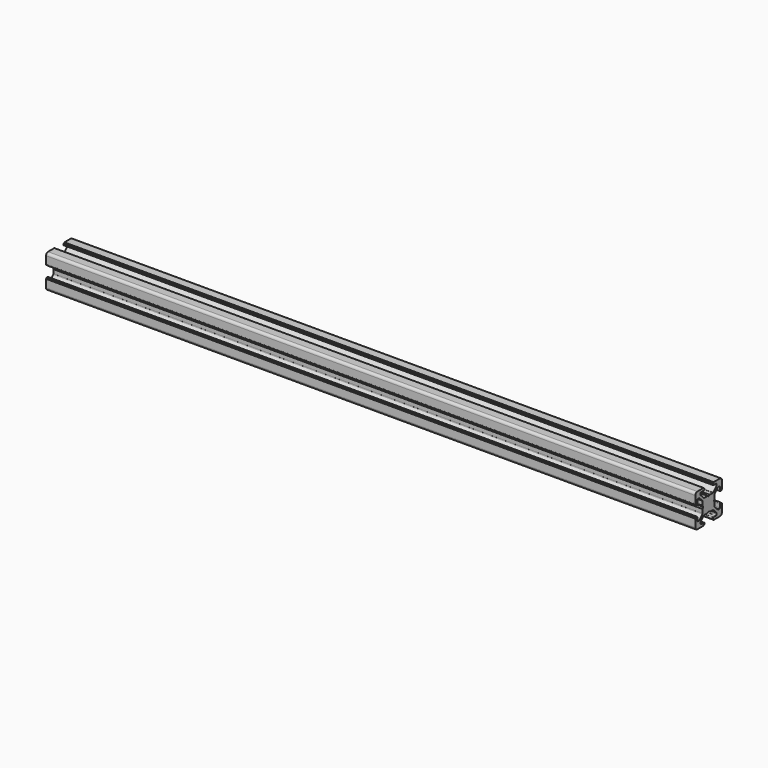
from build123d import *

# Parameters (mm, degrees)
PAD019_DEPTH          = 390
POCKET031_DEPTH       = 390.001
FUSION040_PITCH_ANGLE = 90


with BuildPart() as pad019:
    # Sketch052 → Pad019 (new body)
    with BuildSketch(Plane(origin=(1.5, 0, 0), x_dir=(1, 0, 0), z_dir=(0, 0, 1))):
        with BuildLine():
            Line((0, 20), (4.65, 20))
            ThreePointArc((4.85, 19.8), (4.791421, 19.941421), (4.65, 20))
            Line((4.85, 19.8), (4.85, 19.5))
            Line((4.85, 19.5), (5.2, 19.5))
            ThreePointArc((5.4, 19.3), (5.341421, 19.441421), (5.2, 19.5))
            Line((5.4, 19.3), (5.4, 19))
            ThreePointArc((4.9, 18.5), (5.253553, 18.646446), (5.4, 19))
            Line((4.9, 18.5), (2.999999, 18.5))
            ThreePointArc((2.999999, 18.5), (2.646446, 18.353553), (2.499999, 18))
            Line((2.499999, 18), (2.499999, 17.267767))
            ThreePointArc((2.499999, 17.267767), (2.53806, 17.076425), (2.646446, 16.914213))
            Line((2.646446, 16.914213), (4.914213, 14.646447))
            ThreePointArc((4.914213, 14.646447), (5.076424, 14.53806), (5.267766, 14.5))
            Line((5.267766, 14.5), (7.54641, 14.5))
            ThreePointArc((7.64641, 14.473205), (7.598173, 14.493185), (7.54641, 14.5))
            Line((7.64641, 14.473205), (8.4, 14.03812))
            ThreePointArc((8.4, 14.03812), (8.5, 14.011325), (8.6, 14.03812))
            Line((8.6, 14.03812), (9.35359, 14.473205))
            ThreePointArc((9.45359, 14.5), (9.401827, 14.493185), (9.35359, 14.473205))
            Line((9.45359, 14.5), (11.732234, 14.5))
            ThreePointArc((11.732234, 14.5), (11.923576, 14.53806), (12.085787, 14.646447))
            Line((12.085787, 14.646447), (14.353554, 16.914213))
            ThreePointArc((14.353554, 16.914213), (14.46194, 17.076425), (14.500001, 17.267767))
            Line((14.500001, 17.267767), (14.500001, 18))
            ThreePointArc((14.500001, 18), (14.353554, 18.353553), (14.000001, 18.5))
            Line((14.000001, 18.5), (12.1, 18.5))
            ThreePointArc((11.6, 19), (11.746447, 18.646446), (12.1, 18.5))
            Line((11.6, 19), (11.6, 19.3))
            ThreePointArc((11.8, 19.5), (11.658579, 19.441421), (11.6, 19.3))
            Line((11.8, 19.5), (12.15, 19.5))
            Line((12.15, 19.5), (12.15, 19.8))
            ThreePointArc((12.35, 20), (12.208579, 19.941421), (12.15, 19.8))
            Line((12.35, 20), (17, 20))
            ThreePointArc((18.5, 18.5), (18.06066, 19.56066), (17, 20))
            Line((18.5, 18.5), (18.5, 13.85))
            ThreePointArc((18.3, 13.65), (18.441421, 13.708578), (18.5, 13.85))
            Line((18.3, 13.65), (18, 13.65))
            Line((18, 13.65), (18, 13.3))
            ThreePointArc((17.8, 13.1), (17.941421, 13.158579), (18, 13.3))
            Line((17.8, 13.1), (17.5, 13.1))
            ThreePointArc((17, 13.6), (17.146446, 13.246447), (17.5, 13.1))
            Line((17, 13.6), (17, 15.5))
            ThreePointArc((17, 15.5), (16.853553, 15.853553), (16.5, 16))
            Line((16.5, 16), (15.767767, 16))
            ThreePointArc((15.767767, 16), (15.576425, 15.961939), (15.414213, 15.853553))
            Line((15.414213, 15.853553), (13.146446, 13.585786))
            ThreePointArc((13.146446, 13.585786), (13.03806, 13.423574), (13, 13.232233))
            Line((13, 13.232233), (13, 10.953589))
            ThreePointArc((12.973205, 10.853589), (12.993185, 10.901825), (13, 10.953589))
            Line((12.973205, 10.853589), (12.53812, 10.1))
            ThreePointArc((12.53812, 10.1), (12.511325, 10), (12.53812, 9.9))
            Line((12.53812, 9.9), (12.973205, 9.146411))
            ThreePointArc((13, 9.046411), (12.993185, 9.098175), (12.973205, 9.146411))
            Line((13, 9.046411), (13, 6.767767))
            ThreePointArc((13, 6.767767), (13.03806, 6.576426), (13.146446, 6.414214))
            Line((13.146446, 6.414214), (15.414213, 4.146447))
            ThreePointArc((15.414213, 4.146447), (15.576425, 4.038061), (15.767767, 4))
            Line((15.767767, 4), (16.5, 4))
            ThreePointArc((16.5, 4), (16.853553, 4.146447), (17, 4.5))
            Line((17, 4.5), (17, 6.4))
            ThreePointArc((17.5, 6.9), (17.146446, 6.753553), (17, 6.4))
            Line((17.5, 6.9), (17.8, 6.9))
            ThreePointArc((18, 6.7), (17.941421, 6.841421), (17.8, 6.9))
            Line((18, 6.7), (18, 6.35))
            Line((18, 6.35), (18.3, 6.35))
            ThreePointArc((18.5, 6.15), (18.441421, 6.291422), (18.3, 6.35))
            Line((18.5, 6.15), (18.5, 1.5))
            ThreePointArc((17, 0), (18.06066, 0.43934), (18.5, 1.5))
            Line((17, 0), (12.35, 0))
            ThreePointArc((12.15, 0.2), (12.208579, 0.058579), (12.35, 0))
            Line((12.15, 0.2), (12.15, 0.5))
            Line((12.15, 0.5), (11.8, 0.5))
            ThreePointArc((11.6, 0.7), (11.658579, 0.558579), (11.8, 0.5))
            Line((11.6, 0.7), (11.6, 1))
            ThreePointArc((12.1, 1.5), (11.746447, 1.353554), (11.6, 1))
            Line((12.1, 1.5), (14.000001, 1.5))
            ThreePointArc((14.000001, 1.5), (14.353554, 1.646447), (14.500001, 2))
            Line((14.500001, 2), (14.500001, 2.732233))
            ThreePointArc((14.500001, 2.732233), (14.46194, 2.923575), (14.353554, 3.085787))
            Line((14.353554, 3.085787), (12.085787, 5.353553))
            ThreePointArc((12.085787, 5.353553), (11.923576, 5.46194), (11.732234, 5.5))
            Line((11.732234, 5.5), (9.45359, 5.5))
            ThreePointArc((9.35359, 5.526795), (9.401827, 5.506815), (9.45359, 5.5))
            Line((9.35359, 5.526795), (8.6, 5.96188))
            ThreePointArc((8.6, 5.96188), (8.5, 5.988675), (8.4, 5.96188))
            Line((8.4, 5.96188), (7.64641, 5.526795))
            ThreePointArc((7.54641, 5.5), (7.598173, 5.506815), (7.64641, 5.526795))
            Line((7.54641, 5.5), (5.267766, 5.5))
            ThreePointArc((5.267766, 5.5), (5.076424, 5.46194), (4.914213, 5.353553))
            Line((4.914213, 5.353553), (2.646446, 3.085787))
            ThreePointArc((2.646446, 3.085787), (2.53806, 2.923575), (2.499999, 2.732233))
            Line((2.499999, 2.732233), (2.499999, 2))
            ThreePointArc((2.499999, 2), (2.646446, 1.646447), (2.999999, 1.5))
            Line((2.999999, 1.5), (4.9, 1.5))
            ThreePointArc((5.4, 1), (5.253553, 1.353554), (4.9, 1.5))
            Line((5.4, 1), (5.4, 0.7))
            ThreePointArc((5.2, 0.5), (5.341421, 0.558579), (5.4, 0.7))
            Line((5.2, 0.5), (4.85, 0.5))
            Line((4.85, 0.5), (4.85, 0.2))
            ThreePointArc((4.65, 0), (4.791421, 0.058579), (4.85, 0.2))
            Line((4.65, 0), (0, 0))
            ThreePointArc((-1.5, 1.5), (-1.06066, 0.43934), (0, 0))
            Line((-1.5, 1.5), (-1.5, 6.15))
            ThreePointArc((-1.3, 6.35), (-1.441421, 6.291422), (-1.5, 6.15))
            Line((-1.3, 6.35), (-1, 6.35))
            Line((-1, 6.35), (-1, 6.7))
            ThreePointArc((-0.8, 6.9), (-0.941421, 6.841421), (-1, 6.7))
            Line((-0.8, 6.9), (-0.5, 6.9))
            ThreePointArc((0, 6.4), (-0.146446, 6.753553), (-0.5, 6.9))
            Line((0, 6.4), (0, 4.5))
            ThreePointArc((0, 4.5), (0.146447, 4.146447), (0.5, 4))
            Line((0.5, 4), (1.232233, 4))
            ThreePointArc((1.232233, 4), (1.423575, 4.038061), (1.585787, 4.146447))
            Line((1.585787, 4.146447), (3.853554, 6.414214))
            ThreePointArc((3.853554, 6.414214), (3.96194, 6.576426), (4, 6.767767))
            Line((4, 6.767767), (4, 9.046411))
            ThreePointArc((4.026795, 9.146411), (4.006815, 9.098175), (4, 9.046411))
            Line((4.026795, 9.146411), (4.46188, 9.9))
            ThreePointArc((4.46188, 9.9), (4.488675, 10), (4.46188, 10.1))
            Line((4.46188, 10.1), (4.026795, 10.853589))
            ThreePointArc((4, 10.953589), (4.006815, 10.901825), (4.026795, 10.853589))
            Line((4, 10.953589), (4, 13.232233))
            ThreePointArc((4, 13.232233), (3.96194, 13.423574), (3.853554, 13.585786))
            Line((3.853554, 13.585786), (1.585787, 15.853553))
            ThreePointArc((1.585787, 15.853553), (1.423575, 15.961939), (1.232233, 16))
            Line((1.232233, 16), (0.5, 16))
            ThreePointArc((0.5, 16), (0.146447, 15.853553), (0, 15.5))
            Line((0, 15.5), (0, 13.6))
            ThreePointArc((-0.5, 13.1), (-0.146446, 13.246447), (0, 13.6))
            Line((-0.5, 13.1), (-0.8, 13.1))
            ThreePointArc((-1, 13.3), (-0.941421, 13.158579), (-0.8, 13.1))
            Line((-1, 13.3), (-1, 13.65))
            Line((-1, 13.65), (-1.3, 13.65))
            ThreePointArc((-1.5, 13.85), (-1.441421, 13.708578), (-1.3, 13.65))
            Line((-1.5, 13.85), (-1.5, 18.5))
            ThreePointArc((0, 20), (-1.06066, 19.56066), (-1.5, 18.5))
        make_face()
    extrude(amount=PAD019_DEPTH)


with BuildPart() as pocket031:
    # Pocket031 base: copy of Pad019
    add(pad019.part)

    # Sketch053 → Pocket031 (cut, through all)
    with BuildSketch(Plane(origin=(1.5, 0, 390), x_dir=(1, 0, 0), z_dir=(0, 0, 1))):
        with BuildLine():
            ThreePointArc((6.586105, 12.989641), (5.988263, 12.50841), (5.507825, 11.909931))
            Line((6.054705, 11.258185), (5.507825, 11.909931))
            ThreePointArc((6.054705, 11.258185), (5.75, 10), (6.054705, 8.741815))
            Line((5.507825, 8.090069), (6.054705, 8.741815))
            ThreePointArc((5.507825, 8.090069), (5.988263, 7.49159), (6.586105, 7.010359))
            Line((7.241815, 7.554705), (6.586105, 7.010359))
            ThreePointArc((7.241815, 7.554705), (8.5, 7.25), (9.758185, 7.554705))
            Line((10.413895, 7.010359), (9.758185, 7.554705))
            ThreePointArc((10.413895, 7.010359), (11.011737, 7.49159), (11.492175, 8.090069))
            Line((10.945295, 8.741815), (11.492175, 8.090069))
            ThreePointArc((10.945295, 8.741815), (11.25, 10), (10.945295, 11.258185))
            Line((11.492175, 11.909931), (10.945295, 11.258185))
            ThreePointArc((11.492175, 11.909931), (11.011737, 12.50841), (10.413895, 12.989641))
            Line((9.758185, 12.445295), (10.413895, 12.989641))
            ThreePointArc((9.758185, 12.445295), (8.5, 12.75), (7.241815, 12.445295))
            Line((6.586105, 12.989641), (7.241815, 12.445295))
        make_face()
    extrude(amount=-POCKET031_DEPTH, mode=Mode.SUBTRACT)


with BuildPart() as fusion040:
    # Fusion040 base: copy of Pad019
    add(pad019.part)

    # Fusion040: union Pocket031
    add(pocket031.part)


with BuildPart() as fusion040_1:
    # Fusion040 pitch: moved
    add(fusion040.part.rotate(Axis((0, 0, 0), (0, 1, 0)), FUSION040_PITCH_ANGLE))


with BuildPart() as fusion040_2:
    # Fusion040 placement: moved
    add(fusion040_1.part.moved(Location((-173, 103, -349))))


solid = fusion040_2.part
